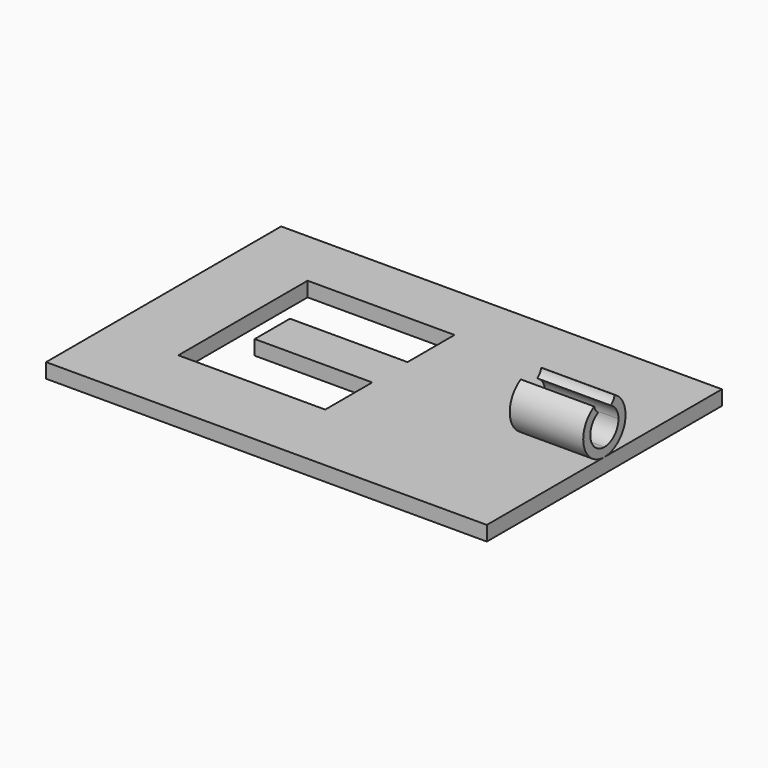
from build123d import *

# Parameters (mm, degrees)
F1_DEPTH = 1.27
F3_DEPTH = 6.35
F5_D     = 2.286
F5_DEPTH = 25.4


with BuildPart() as f1:
    # F0 (on Top) → F1 (new body)
    with BuildSketch(Plane.XY):
        Polygon((-25.4, 0), (0, 0), (0, 25.4), (-25.4, 25.4), (-38.1, 25.4), (-38.1, 0), align=None)
        Polygon((-31.75, 20.32), (-25.4, 20.32), (-19.05, 20.32), (-19.05, 15.24), (-29.21, 15.24), (-29.21, 11.43), (-19.05, 11.43), (-19.05, 6.35), (-25.4, 6.35), (-31.75, 6.35), align=None, mode=Mode.SUBTRACT)
    extrude(amount=F1_DEPTH)


with BuildPart() as f3:
    # F2 (on Right) → F3 (new body)
    with BuildSketch(Plane.YZ):
        with BuildLine():
            ThreePointArc((14.224, 3.556), (11.622369, 4.633631), (12.7, 2.032))
            ThreePointArc((12.7, 2.032), (13.777631, 2.478369), (14.224, 3.556))
        make_face()
        with BuildLine():
            ThreePointArc((14.986, 3.556), (11.083554, 5.172446), (12.7, 1.27))
            ThreePointArc((12.7, 1.27), (14.316446, 1.939554), (14.986, 3.556))
        make_face()
        with BuildLine():
            ThreePointArc((14.224, 3.556), (13.777631, 2.478369), (12.7, 2.032))
            ThreePointArc((12.7, 2.032), (11.622369, 4.633631), (14.224, 3.556))
        make_face(mode=Mode.SUBTRACT)
    extrude(amount=-F3_DEPTH)

    # F5
    with Locations(Plane(origin=(-6.35, 0, 0), x_dir=(0, -1, 0), z_dir=(-1, 0, 0))):
        with Locations((-12.713505, 5.84196)):
            Hole(F5_D / 2, depth=F5_DEPTH)


solid = Compound([f1.part, f3.part])
